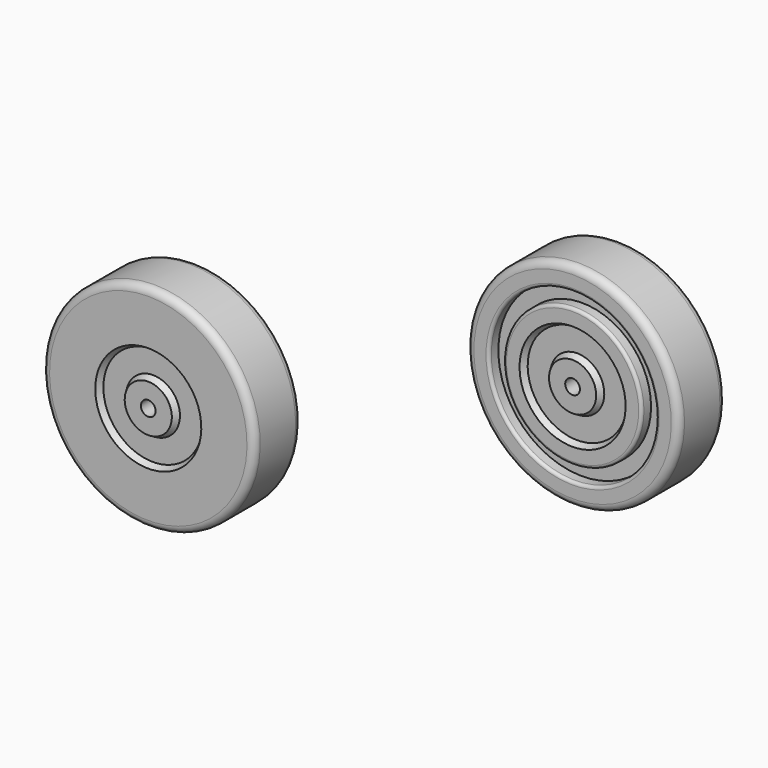
from build123d import *

# Parameters (mm, degrees)
F5_R     = 36.063226
F5_R_2   = 29.760001
F6_DEPTH = 5.08
F7_R     = 1.27


with BuildPart() as f1:
    # F0 (on Right) → F1 (revolve)
    with BuildSketch(Plane.YZ):
        with BuildLine():
            Line((-12.7, 3.175), (12.7, 3.175))
            Line((12.7, 3.175), (12.7, 10.16))
            Line((12.7, 10.16), (10.16, 11.62647))
            Line((10.16, 11.62647), (10.16, 21.39353))
            Line((10.16, 21.39353), (12.7, 22.86))
            Line((12.7, 22.86), (12.7, 42.545))
            ThreePointArc((12.7, 42.545), (11.770064, 44.790064), (9.525, 45.72))
            Line((9.525, 45.72), (-9.525, 45.72))
            ThreePointArc((-9.525, 45.72), (-11.770064, 44.790064), (-12.7, 42.545))
            Line((-12.7, 42.545), (-12.7, 22.86))
            Line((-12.7, 22.86), (-10.16, 21.39353))
            Line((-10.16, 21.39353), (-10.16, 11.62647))
            Line((-10.16, 11.62647), (-12.7, 10.16))
            Line((-12.7, 10.16), (-12.7, 3.175))
        make_face()
    revolve(axis=Axis((0, -22.93878, 0), (0, -1, 0)))


with BuildPart() as f2_1:
    # F2: copy of F1
    add(f1.part)


with BuildPart() as f4_1:
    # F4: copy of F2_1
    add(f2_1.part.moved(Location((101.6, 101.6, 0))))

    # F5 (on face) → F6 (cut)
    with BuildSketch(Plane.XZ.offset(-88.9)):
        with Locations((101.6, 0)):
            Circle(F5_R)
        with Locations((101.6, 0)):
            Circle(F5_R_2, mode=Mode.SUBTRACT)
    extrude(amount=-F6_DEPTH, mode=Mode.SUBTRACT)

    # F7
    f7_edges = [f4_1.edges().sort_by_distance(p)[0] for p in [
        (65.536774, 88.9, 0),
        (71.839999, 88.9, 0),
    ]]
    fillet(f7_edges, radius=F7_R)


solid = Compound([f2_1.part, f4_1.part])
